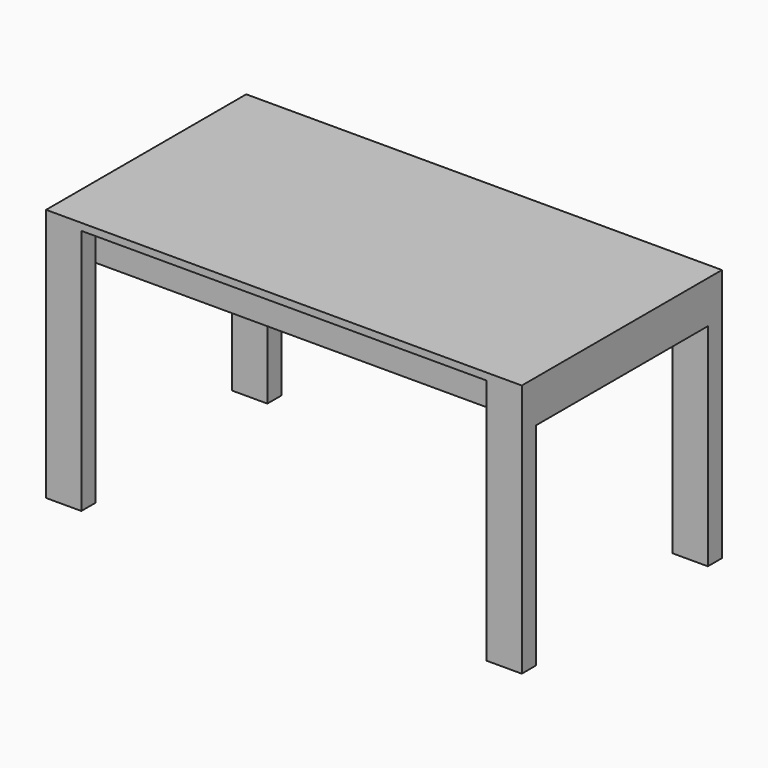
from build123d import *

# Parameters (mm, degrees)
F0_W     = 1350
F0_H     = 710
F1_DEPTH = 20
F2_W     = 100
F2_H     = 50
F3_DEPTH = 700
F4_W     = 1250
F4_H     = 50
F5_DEPTH = 100


with BuildPart() as f1:
    # F0 (on Top) → F1 (new body)
    with BuildSketch(Plane.XY):
        Rectangle(F0_W, F0_H)
    extrude(amount=F1_DEPTH)

    # F2 (on face) → F3 (join)
    with BuildSketch(Plane(origin=(0, 0, 0), x_dir=(1, 0, 0), z_dir=(0, 0, -1))):
        with Locations((625, -330)):
            Rectangle(F2_W, F2_H)
        with Locations((-625, 330)):
            Rectangle(F2_W, F2_H)
        with Locations((625, 330)):
            Rectangle(F2_W, F2_H)
        with Locations((-625, -330)):
            Rectangle(F2_W, F2_H)
    extrude(amount=F3_DEPTH)

    # F4 (on face) → F5 (join)
    with BuildSketch(Plane(origin=(0, 0, 0), x_dir=(1, 0, 0), z_dir=(0, 0, -1))):
        Polygon((-625, 305), (-675, 305), (-675, -305), (-625, -305), (-625, -253.84596), (-625, -22.106195), (-625, 27.893805), (-625, 255), align=None)
        Polygon((-575, 305), (-625, 305), (-625, 255), (625, 255), (625, 305), (575, 305), align=None)
        Polygon((-625, -253.84596), (-625, -305), (-575, -305), (575, -305), (625, -305), (625, -253.84596), align=None)
        Polygon((625, 305), (625, 255), (625, 27.893805), (625, -22.106195), (625, -253.84596), (625, -305), (675, -305), (675, 305), align=None)
        with Locations((0, 2.893805)):
            Rectangle(F4_W, F4_H)
    extrude(amount=F5_DEPTH)


solid = f1.part
